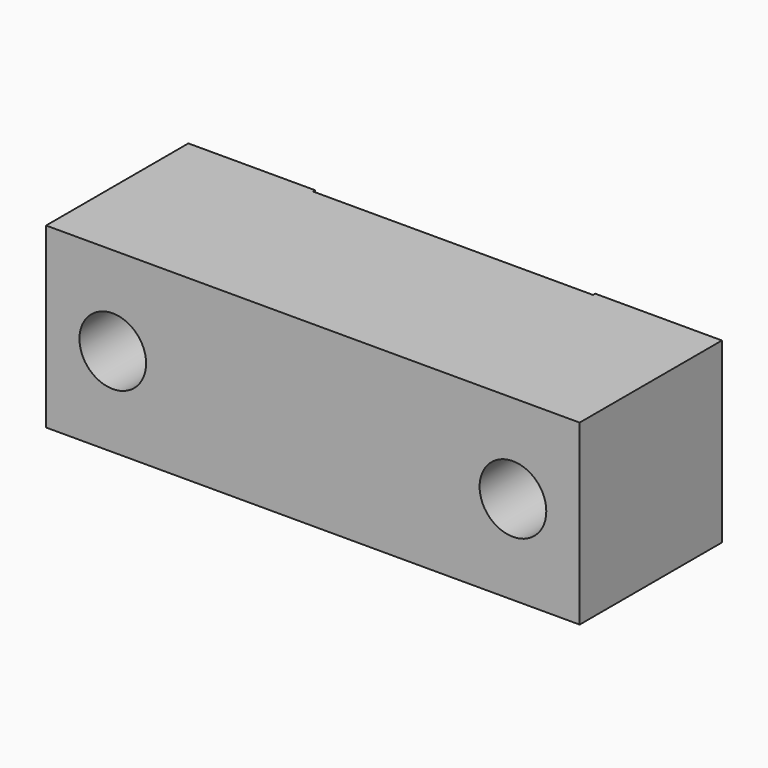
from build123d import *

# Parameters (mm, degrees)
F0_W     = 76.2
F0_H     = 50.8
F1_DEPTH = 12.7
F2_W     = 40
F2_H     = 0.39
F3_DEPTH = 25.4
F4_R     = 4.7625
F5_DEPTH = 25.4


with BuildPart() as f1:
    # F0 (on Top) → F1 (new body, symmetric)
    with BuildSketch(Plane.XY):
        Rectangle(F0_W, F0_H)
    extrude(amount=F1_DEPTH, both=True)

    # F2 (on face) → F3 (cut)
    with BuildSketch(Plane.XY.offset(12.7)):
        Polygon((-20, 0), (-20, 0.39), (20, 0.39), (20, 0), (38.1, 0), (38.1, 25.4), (-38.1, 25.4), (-38.1, 0), align=None)
        with Locations((0, 0.195)):
            Rectangle(F2_W, F2_H)
        with Locations((0, -0.195)):
            Rectangle(F2_W, F2_H)
    extrude(amount=-F3_DEPTH, mode=Mode.SUBTRACT)

    # F4 (on face) → F5 (cut)
    with BuildSketch(Plane.XZ.offset(25.4)):
        with Locations((-28.575, 0)):
            Circle(F4_R)
        with Locations((28.575, 0)):
            Circle(F4_R)
    extrude(amount=-F5_DEPTH, mode=Mode.SUBTRACT)


solid = f1.part
